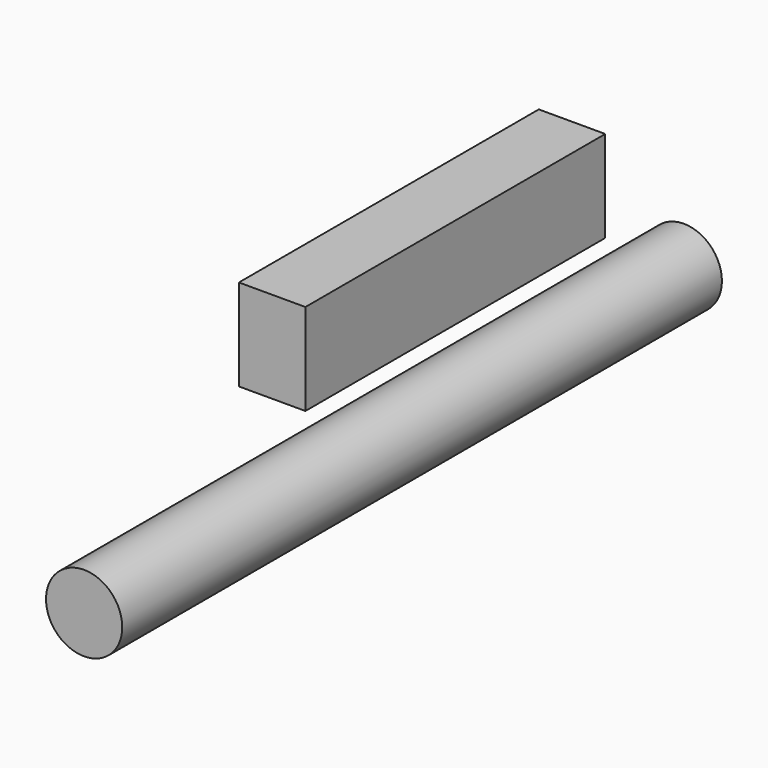
from build123d import *

# Parameters (mm, degrees)
F0_R     = 10
F1_DEPTH = 25
F5_R     = 2.541772
F2_DEPTH = 25
F3_R     = 10
F3_W     = 4.434139
F3_H     = 6.106716
F3_R_2   = 2.541772
F4_DEPTH = 25.001


with BuildPart() as f1:
    # F0 (on Front) → F1 (new body)
    with BuildSketch(Plane.XZ):
        Circle(F0_R)
    extrude(amount=F1_DEPTH)

    # F5 (on face) → F2 (join)
    with BuildSketch(Plane.XZ.offset(25)):
        with Locations((5.240157, 0)):
            Circle(F5_R)
    extrude(amount=F2_DEPTH)

    # F3 (on face) → F4 (cut, through all)
    with BuildSketch(Plane.XZ.offset(25)):
        Circle(F3_R)
        with Locations((-2.21707, 3.053358)):
            Rectangle(F3_W, F3_H, mode=Mode.SUBTRACT)
        with Locations((5.240157, 0)):
            Circle(F3_R_2, mode=Mode.SUBTRACT)
    extrude(amount=-F4_DEPTH, mode=Mode.SUBTRACT)


solid = f1.part
